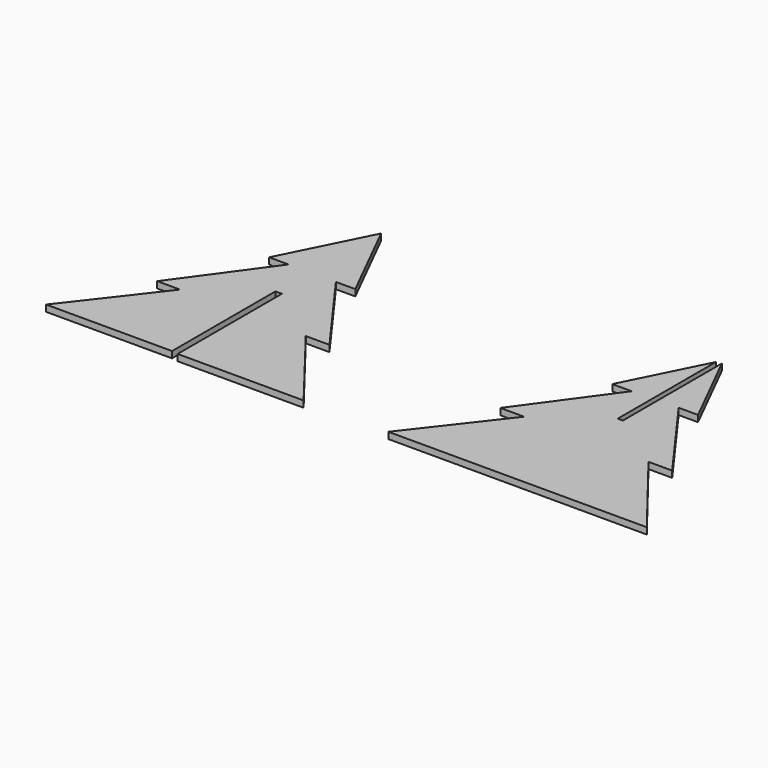
from build123d import *

# Parameters (mm, degrees)
F1_DEPTH = 1.5


with BuildPart() as f1:
    # F0 (on Top) → F1 (new body)
    with BuildSketch(Plane.XY):
        Polygon((-69.688795, 40), (-79.688795, 60), (-89.688795, 40), (-85.188795, 40), (-99.688795, 20), (-94.382545, 20), (-109.688795, 0.25), (-80.438795, 0.25), (-80.438795, 30.25), (-78.938795, 30.25), (-78.938795, 0), (-49.688795, 0), (-65.188795, 20), (-59.688795, 20), (-74.188795, 40), align=None)
        Polygon((-30, 0), (0, 0), (30, 0), (14.2, 20.25), (19.7, 20.25), (5.2, 40.25), (9.7, 40.25), (0.45, 58.75), (0.45, 30), (-0.75, 30), (-0.75, 58.5), (-10, 40), (-5.5, 40), (-20, 20), (-14.5, 20), align=None)
    extrude(amount=F1_DEPTH)


solid = f1.part
